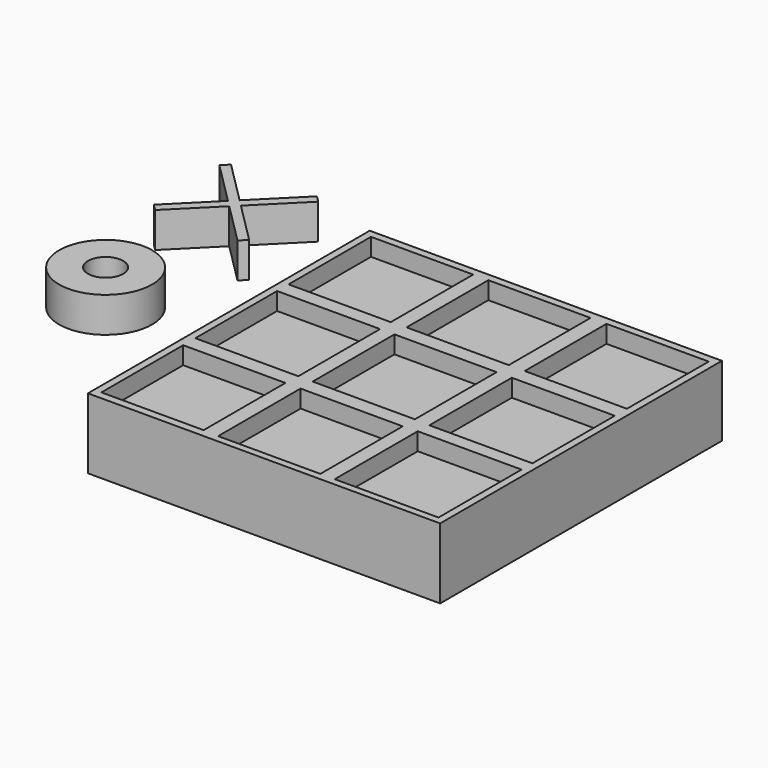
from build123d import *

# Parameters (mm, degrees)
F0_W     = 127
F0_H     = 127
F1_DEPTH = 25.4
F2_W     = 36.8491709232
F2_H     = 37.1370585635
F2_W_2   = 36.8491690606
F2_H_2   = 36.8491737172
F2_W_3   = 36.8491727859
F2_W_4   = 37.1370539069
F2_H_3   = 36.8491718546
F2_W_5   = 37.1370557696
F2_H_4   = 37.1370548382
F2_H_5   = 36.8491709232
F2_H_6   = 37.1370613575
F2_W_6   = 37.4249406159
F2_H_7   = 37.4249443412
F3_DEPTH = 6.35
F5_DEPTH = 12.7
F6_R     = 16.764
F6_R_2   = 6.3418339622
F7_DEPTH = 12.7


with BuildPart() as f1:
    # F0 (on Top) → F1 (new body)
    with BuildSketch(Plane.XY):
        with Locations((2.7341544628, -12.7415094916)):
            Rectangle(F0_W, F0_H)
    extrude(amount=F1_DEPTH)

    # F2 (on face) → F3 (cut)
    with BuildSketch(Plane.XY.offset(25.4)):
        with Locations((-39.7280119359, 29.4873728417)):
            Rectangle(F2_W, F2_H)
        with Locations((2.5909570977, 29.6313152649)):
            Rectangle(F2_W_2, F2_H_2)
        with Locations((45.1978137717, 29.6313152649)):
            Rectangle(F2_W_3, F2_H_2)
        with Locations((-39.5840704441, -12.6876565628)):
            Rectangle(F2_W_4, F2_H_3)
        with Locations((2.5909570977, -12.6876565628)):
            Rectangle(F2_W_2, F2_H_3)
        with Locations((45.0538722798, -12.8315980546)):
            Rectangle(F2_W_5, F2_H_4)
        with Locations((-39.7280119359, -55.0066232681)):
            Rectangle(F2_W, F2_H_5)
        with Locations((2.5909570977, -55.1505684853)):
            Rectangle(F2_W_2, F2_H_6)
        with Locations((44.9099298567, -55.0066269934)):
            Rectangle(F2_W_6, F2_H_7)
    extrude(amount=-F3_DEPTH, mode=Mode.SUBTRACT)


with BuildPart() as f5:
    # F4 (on Top) → F5 (new body)
    with BuildSketch(Plane.XY):
        Polygon((-98.3731364228, 74.5703850207), (-100.6970453433, 76.8942939412), (-116.1910453433, 61.4002939412), (-113.8671364228, 59.0763850207), align=None)
        Polygon((-113.8671364228, 59.0763850207), (-116.1910453433, 61.4002939412), (-118.5259119348, 59.0654273498), (-116.2020030143, 56.7415184292), align=None)
        Polygon((-118.5259119348, 59.0654273498), (-116.1910453433, 61.4002939412), (-131.6850453433, 76.8942939412), (-134.0199119348, 74.5594273498), align=None)
        Polygon((-116.2020030143, 56.7415184292), (-118.5259119348, 59.0654273498), (-133.385177624, 44.2061616605), (-131.0612687035, 41.88225274), align=None)
        Polygon((-98.9969130626, 44.2061616605), (-113.8671364228, 59.0763850207), (-116.2020030143, 56.7415184292), (-101.3317796541, 41.8712950691), align=None)
    extrude(amount=F5_DEPTH)


with BuildPart() as f7:
    # F6 (on Top) → F7 (new body)
    with BuildSketch(Plane.XY):
        with Locations((-120.0988069177, 5.8918311261)):
            Circle(F6_R)
        with Locations((-120.0988069177, 5.8918311261)):
            Circle(F6_R_2, mode=Mode.SUBTRACT)
    extrude(amount=F7_DEPTH)


solid = Compound([f1.part, f5.part, f7.part])
